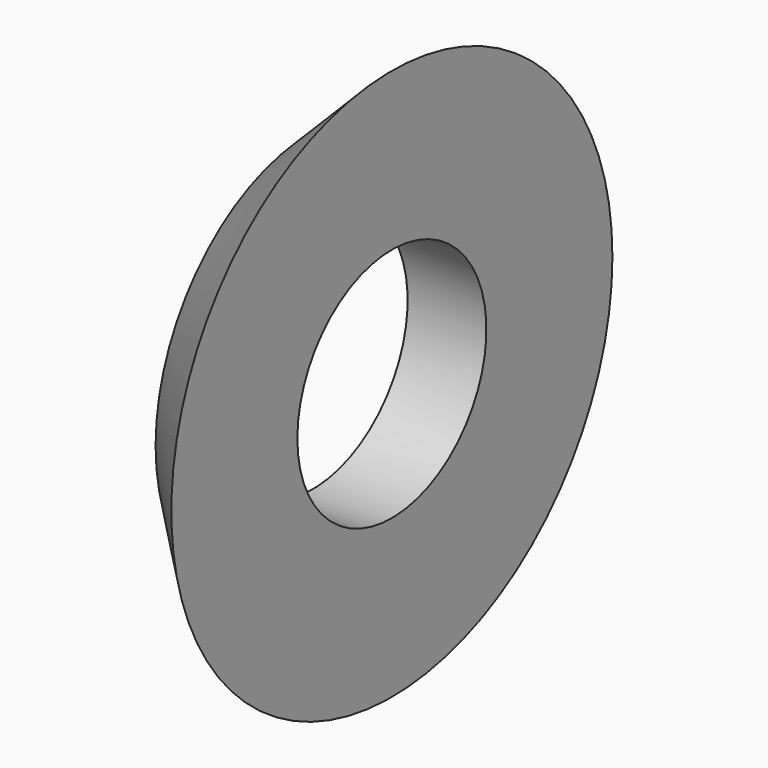
from build123d import *

# Parameters (mm, degrees)
F3_D = 6


with BuildPart() as f1:
    # F0 (on Top) → F1 (revolve)
    with BuildSketch(Plane.XY):
        Polygon((-2, 0), (0, 0), (0, 7), (-2, 5), align=None)
    revolve(axis=Axis((-1, 0, 0), (-1, 0, 0)))

    # F3 (through all)
    with Locations(Plane.YZ):
        with Locations((0, 0)):
            Hole(F3_D / 2)


solid = f1.part
